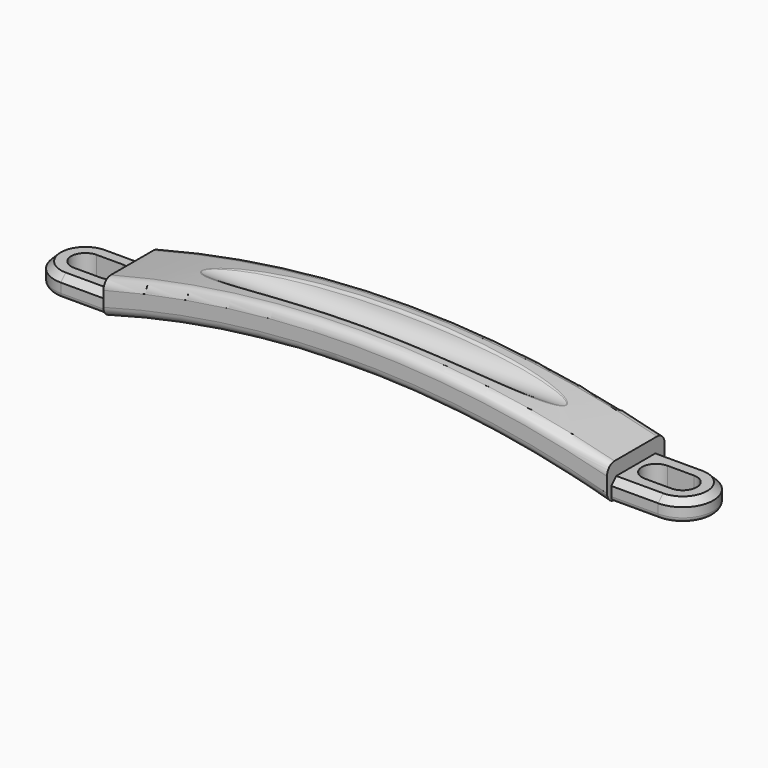
from build123d import *

# Parameters (mm, degrees)
PAD_DEPTH    = 6.5
PAD001_DEPTH = 11.5
FILLET_R     = 1.5
FILLET001_R  = 3
FILLET002_R  = 3
SKETCH003_R  = 6
POCKET_DEPTH = 250
PAD002_DEPTH = 60
FILLET003_R  = 2
CHAMFER_SIZE = 2
FILLET004_R  = 1


with BuildPart() as part:
    # Sketch001 (on Sketch) → Pad (new body)
    with BuildSketch(Plane.XY):
        with BuildLine():
            ThreePointArc((-95.5, 9.8), (-105.3, 0), (-95.5, -9.8))
            Line((-80.5, -9.8), (-95.5, -9.8))
            Line((-80.5, 9.8), (-80.5, -9.8))
            Line((-95.5, 9.8), (-80.5, 9.8))
        make_face()
        with BuildLine():
            ThreePointArc((-95.5, 4.5), (-100, 0), (-95.5, -4.5))
            Line((-95.5, -4.5), (-87, -4.5))
            ThreePointArc((-87, -4.5), (-82.5, 0), (-87, 4.5))
            Line((-95.5, 4.5), (-87, 4.5))
        make_face(mode=Mode.SUBTRACT)
        with BuildLine():
            ThreePointArc((95.5, -9.8), (105.3, 0), (95.5, 9.8))
            Line((95.5, 9.8), (80.5, 9.8))
            Line((80.5, 9.8), (80.5, -9.8))
            Line((80.5, -9.8), (95.5, -9.8))
        make_face()
        with BuildLine():
            ThreePointArc((87, 4.5), (82.5, 0), (87, -4.5))
            Line((87, -4.5), (95.5, -4.5))
            ThreePointArc((95.5, -4.5), (100, 0), (95.5, 4.5))
            Line((87, 4.5), (95.5, 4.5))
        make_face(mode=Mode.SUBTRACT)
    extrude(amount=PAD_DEPTH)

    # Sketch002 (on XZ_Plane of Origin) → Pad001 (join, symmetric)
    with BuildSketch(Plane.XZ):
        with BuildLine():
            ThreePointArc((80.5, 0), (0, 11.151012), (-80.5, 0))
            Line((-80.5, 0), (-80.5, 11.000015))
            ThreePointArc((80.5, 11.000015), (0, 21.378984), (-80.5, 11.000015))
            Line((80.5, 0), (80.5, 11.000015))
        make_face()
    extrude(amount=PAD001_DEPTH, both=True)

    # Fillet
    fillet_edges = [part.edges().sort_by_distance(p)[0] for p in [
        (88, 9.8, 0),
        (88, -9.8, 0),
        (-88, -9.8, 0),
    ]]
    fillet(fillet_edges, radius=FILLET_R)

    # Fillet001
    fillet001_edges = [part.edges().sort_by_distance(p)[0] for p in [
        (0, -11.5, 11.151012),
        (0, 11.5, 11.151012),
    ]]
    fillet(fillet001_edges, radius=FILLET001_R)

    # Fillet002
    fillet002_edges = [part.edges().sort_by_distance(p)[0] for p in [
        (0, 11.5, 21.378984),
        (0, -11.5, 21.378984),
    ]]
    fillet(fillet002_edges, radius=FILLET002_R)

    # Sketch003 (on YZ_Plane of Origin) → Pocket (cut, symmetric)
    with BuildSketch(Plane.YZ):
        with Locations((0, 22)):
            Circle(SKETCH003_R)
    extrude(amount=POCKET_DEPTH, both=True, mode=Mode.SUBTRACT)

    # Sketch004 (on YZ_Plane of Origin) → Pad002 (join, symmetric)
    with BuildSketch(Plane.YZ):
        with BuildLine():
            Line((-8.75, 11.42591), (8.75, 11.42591))
            ThreePointArc((-8.75, 11.42591), (0, 7.083907), (8.75, 11.42591))
        make_face()
    extrude(amount=PAD002_DEPTH, both=True)

    # Fillet003
    fillet003_edges = [part.edges().sort_by_distance(p)[0] for p in [
        (-48.911662, 0, 7.083907),
    ]]
    fillet(fillet003_edges, radius=FILLET003_R)

    # Chamfer
    chamfer_edges = [part.edges().sort_by_distance(p)[0] for p in [
        (-88, -9.8, 6.5),
        (-88, 9.8, 6.5),
        (88, -9.8, 6.5),
        (88, 9.8, 6.5),
    ]]
    chamfer(chamfer_edges, length=CHAMFER_SIZE)

    # Fillet004
    fillet004_edges = [part.edges().sort_by_distance(p)[0] for p in [
        (0, -5.967775, 21.378984),
    ]]
    fillet(fillet004_edges, radius=FILLET004_R)


solid = part.part
